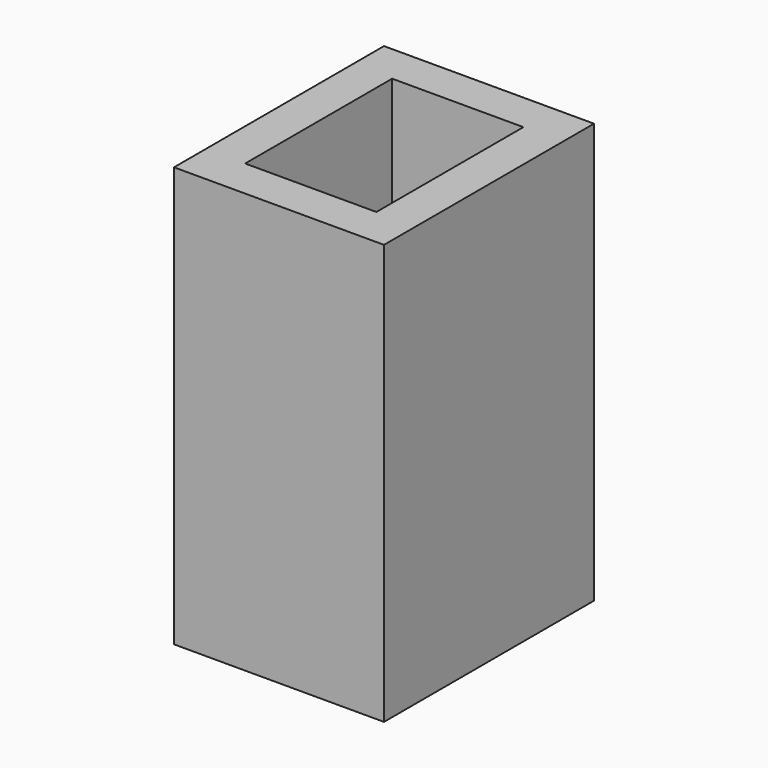
from build123d import *

# Parameters (mm, degrees)
F0_W     = 400
F0_H     = 500
F0_W_2   = 250
F0_H_2   = 350
F1_DEPTH = 800


with BuildPart() as f1:
    # F0 (on Top) → F1 (new body)
    with BuildSketch(Plane.XY):
        with Locations((0, -0.619976)):
            Rectangle(F0_W, F0_H)
        Rectangle(F0_W_2, F0_H_2, mode=Mode.SUBTRACT)
    extrude(amount=F1_DEPTH)


solid = f1.part
